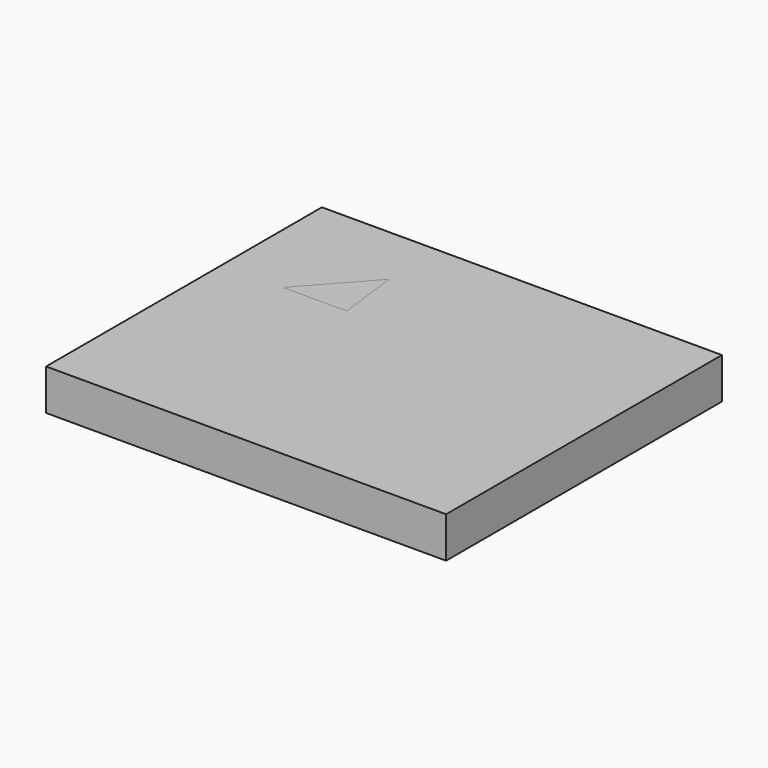
from build123d import *

# Parameters (mm, degrees)
F0_W     = 248.180494
F0_H     = 213.896378
F1_DEPTH = 12.7
F3_DEPTH = 25.4


with BuildPart() as f1:
    # F0 (on Top) → F1 (new body, symmetric)
    with BuildSketch(Plane.XY):
        Rectangle(F0_W, F0_H)
    extrude(amount=F1_DEPTH, both=True)


with BuildPart() as f3:
    # F2 (on face) → F3 (new body)
    with BuildSketch(Plane.XY.offset(12.7)):
        Polygon((-46.741441, 29.4933), (-51.509198, 68.31646), (-86.245701, 29.4933), align=None)
    extrude(amount=-F3_DEPTH)


solid = Compound([f1.part, f3.part])
